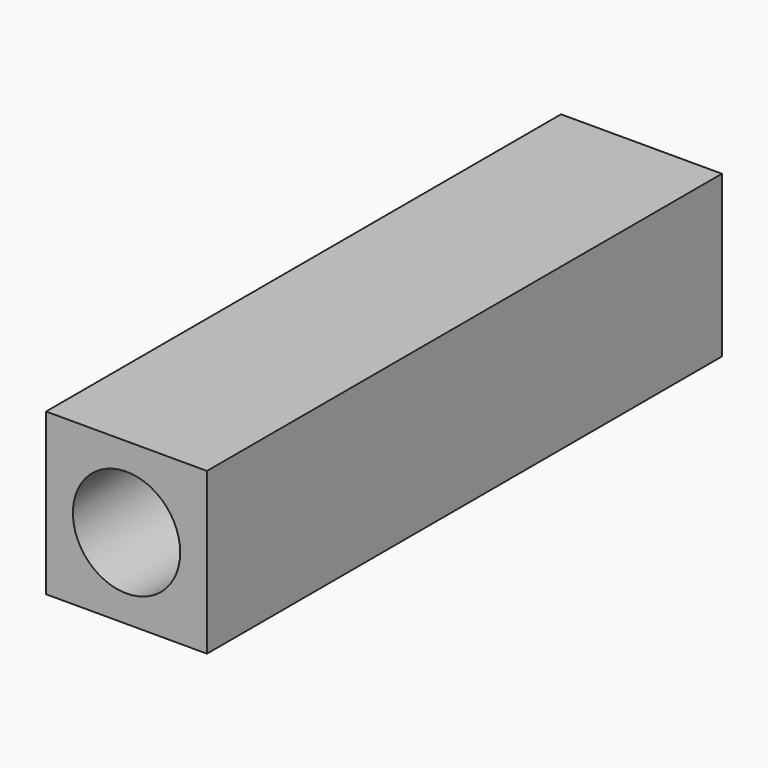
from build123d import *

# Parameters (mm, degrees)
F1_DEPTH = 60
F2_R     = 10
F3_DEPTH = 40
F4_R     = 10
F5_DEPTH = 40


with BuildPart() as f1:
    # F0 (on Front) → F1 (new body, symmetric)
    with BuildSketch(Plane.XZ):
        Polygon((15, -15), (15, 0), (15, 15), (0, 15), (-15, 15), (-15, -15), align=None)
    extrude(amount=F1_DEPTH, both=True)

    # F2 (on face) → F3 (cut)
    with BuildSketch(Plane.XZ.offset(60)):
        Circle(F2_R)
    extrude(amount=-F3_DEPTH, mode=Mode.SUBTRACT)

    # F4 (on face) → F5 (cut)
    with BuildSketch(Plane(origin=(0, 60, 0), x_dir=(-1, 0, 0), z_dir=(0, 1, 0))):
        Circle(F4_R)
    extrude(amount=-F5_DEPTH, mode=Mode.SUBTRACT)


solid = f1.part
